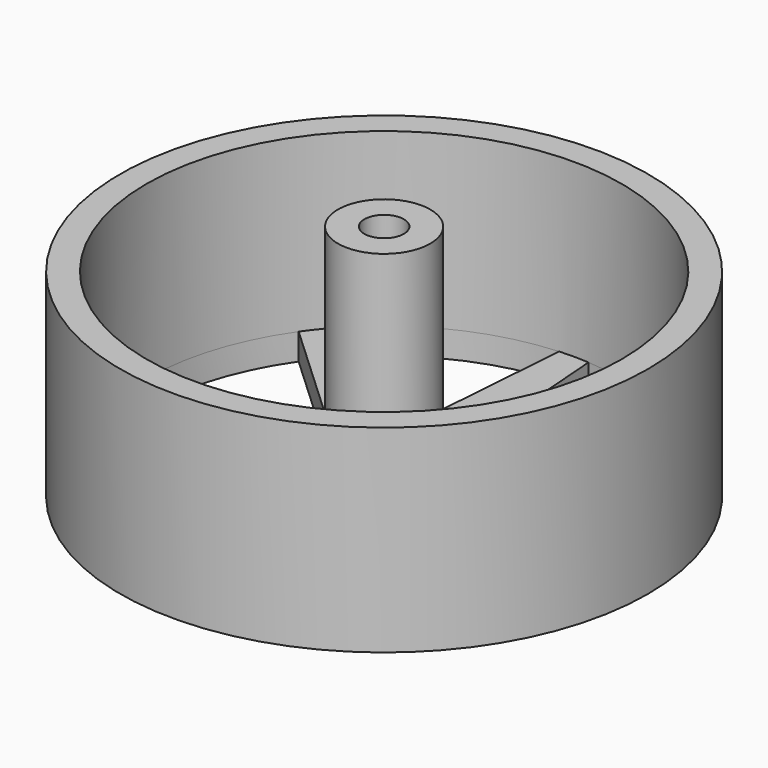
from build123d import *

# Parameters (mm, degrees)
F0_R     = 20
F1_DEPTH = 15
F2_R     = 18
F3_DEPTH = 13
F5_R     = 3.5
F5_R_2   = 1.5
F6_DEPTH = 16
F8_DEPTH = 2


with BuildPart() as f1:
    # F0 (on Top) → F1 (new body)
    with BuildSketch(Plane.XY):
        Circle(F0_R)
    extrude(amount=F1_DEPTH)

    # F2 (on face) → F3 (cut)
    with BuildSketch(Plane.XY.offset(15)):
        Circle(F2_R)
    extrude(amount=-F3_DEPTH, mode=Mode.SUBTRACT)

    # F5 (on face) → F6 (join)
    with BuildSketch(Plane.XY.offset(2)):
        Circle(F5_R)
        Circle(F5_R_2, mode=Mode.SUBTRACT)
    extrude(amount=F6_DEPTH)

    # F7 (on face) → F8 (cut)
    with BuildSketch(Plane.XY.offset(2)):
        with BuildLine():
            Line((-3.8471836237, -3.068026562), (-17.26724866, -5.0835148974))
            ThreePointArc((-17.26724866, -5.0835148974), (-14.0729666844, -11.2228164335), (-8.7983848642, -15.7031342025))
            Line((-8.7983848642, -15.7031342025), (-3.8471836237, -3.068026562))
        make_face()
        with BuildLine():
            Line((0, -4.9207325491), (-6.7915014573, -16.6695983142))
            ThreePointArc((-6.7915014573, -16.6695983142), (0, -18), (6.7915014573, -16.6695983142))
            Line((6.7915014573, -16.6695983142), (0, -4.9207325491))
        make_face()
        with BuildLine():
            Line((-4.7973595105, 1.0949660026), (-14.7404054341, 10.3305589219))
            ThreePointArc((-14.7404054341, 10.3305589219), (-17.5487024193, 4.0053768112), (-17.7629079286, -2.9118897508))
            Line((-17.7629079286, -2.9118897508), (-4.7973595105, 1.0949660026))
        make_face()
        with BuildLine():
            Line((-2.1350258376, 4.433426834), (-1.1137362668, 17.965511168))
            ThreePointArc((-1.1137362668, 17.965511168), (-7.8099073041, 16.2174396222), (-13.3515990255, 12.072067075))
            Line((-13.3515990255, 12.072067075), (-2.1350258376, 4.433426834))
        make_face()
        with BuildLine():
            ThreePointArc((13.3515990255, 12.072067075), (7.8099073041, 16.2174396222), (1.1137362668, 17.965511168))
            Line((1.1137362668, 17.965511168), (2.1350258376, 4.433426834))
            Line((2.1350258376, 4.433426834), (13.3515990255, 12.072067075))
        make_face()
        with BuildLine():
            ThreePointArc((18, 0), (17.1657696858, 5.4163041913), (14.7404054341, 10.3305589219))
            Line((14.7404054341, 10.3305589219), (4.7973595105, 1.0949660026))
            Line((4.7973595105, 1.0949660026), (17.7629079286, -2.9118897508))
            ThreePointArc((17.7629079286, -2.9118897508), (17.940629068, -1.4607630344), (18, 0))
        make_face()
        with BuildLine():
            ThreePointArc((8.7983848642, -15.7031342025), (14.0729666844, -11.2228164335), (17.26724866, -5.0835148974))
            Line((17.26724866, -5.0835148974), (3.8471836237, -3.068026562))
            Line((3.8471836237, -3.068026562), (8.7983848642, -15.7031342025))
        make_face()
    extrude(amount=-F8_DEPTH, mode=Mode.SUBTRACT)


solid = f1.part
